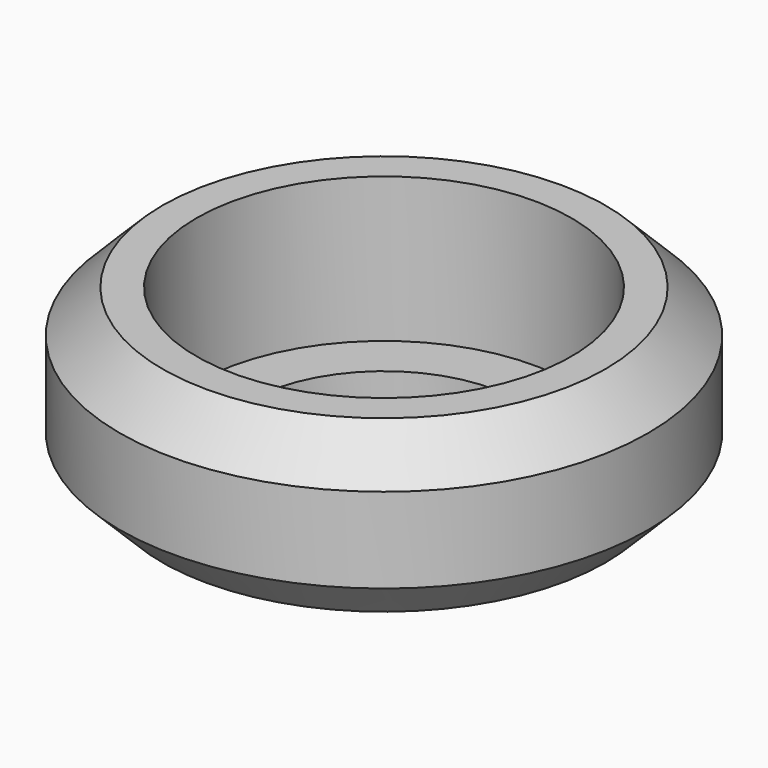
from build123d import *

# Parameters (mm, degrees)
F0_W = 3
F0_H = 1.5


with BuildPart() as f1:
    # F0 (on Front) → F1 (revolve)
    with BuildSketch(Plane.XZ):
        Polygon((-2.5, 2.5), (0, 0), (0, 10), (-2.5, 7.5), align=None)
        Polygon((0, 10), (0, 0), (2, 0), (2, 1.5), (2, 10), align=None)
        with Locations((3.5, 0.75)):
            Rectangle(F0_W, F0_H)
    revolve(axis=Axis((13, 0, 5), (0, 0, 1)))


solid = f1.part
